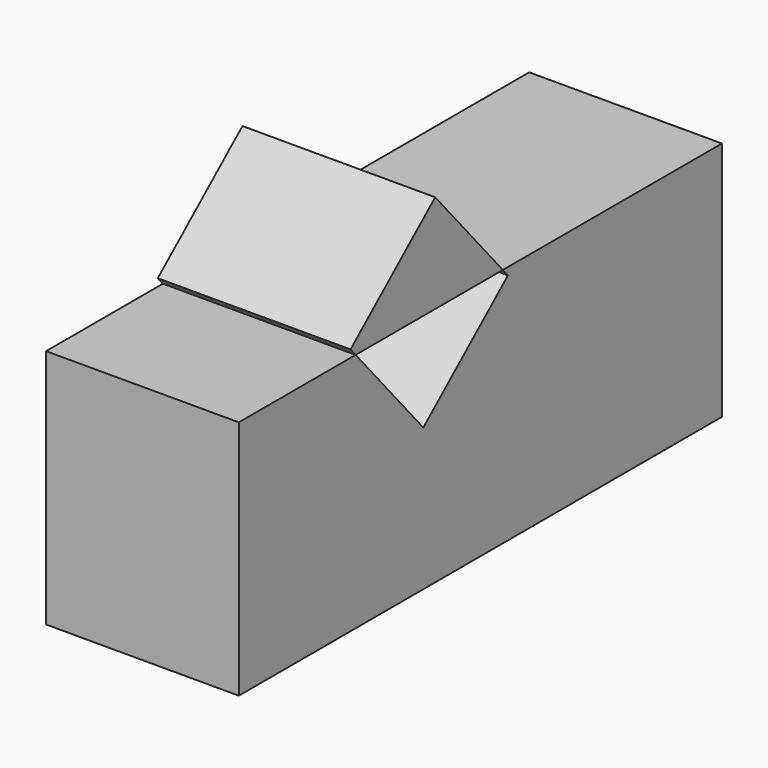
from build123d import *

# Parameters (mm, degrees)
F1_DEPTH = 43.18


with BuildPart() as f1:
    # F0 (on Right) → F1 (new body)
    with BuildSketch(Plane.YZ):
        Polygon((-41.352519, 60.125191), (-74.066862, 60.125191), (-74.066862, 6.202942), (61.228603, 6.202942), (61.228603, 60.125191), (-0.124912, 60.125191), (1.302615, 58.465118), (-22.398788, 38.083861), align=None)
        Polygon((-42.780045, 61.785264), (-41.352519, 60.125191), (-20.738715, 60.125191), (-0.124912, 60.125191), (-19.078642, 82.166521), align=None)
    extrude(amount=-F1_DEPTH)


solid = f1.part
